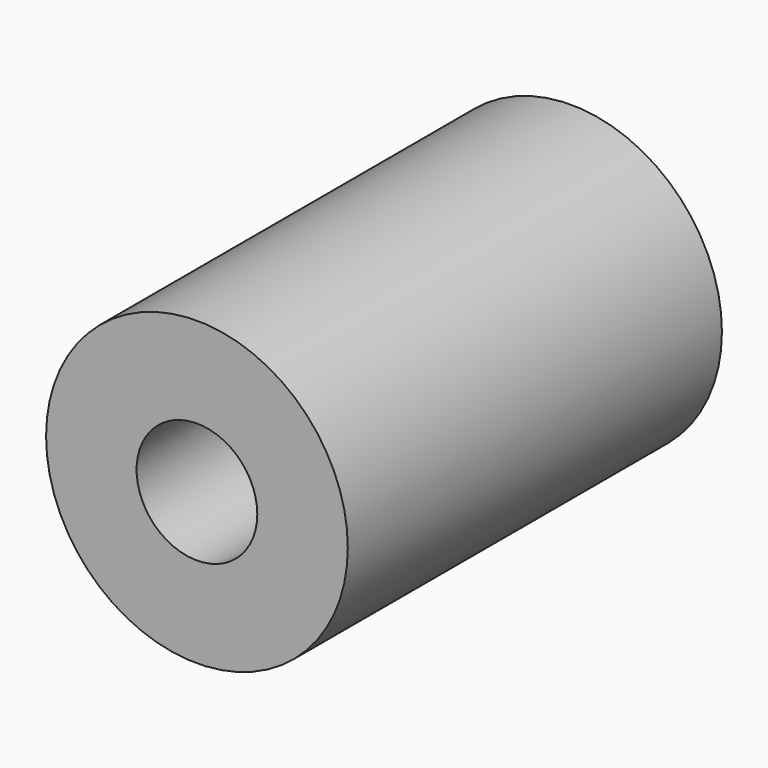
from build123d import *

# Parameters (mm, degrees)
F0_R           = 10
F1_DEPTH       = 31
F3_D           = 6.35
F3_CBORE_D     = 8
F3_CBORE_DEPTH = 15


with BuildPart() as f1:
    # F0 (on Front) → F1 (new body)
    with BuildSketch(Plane.XZ):
        Circle(F0_R)
    extrude(amount=-F1_DEPTH)

    # F3 (through all)
    with Locations(Plane.XZ):
        with Locations((0, 0)):
            CounterBoreHole(F3_D / 2, F3_CBORE_D / 2, F3_CBORE_DEPTH)


solid = f1.part
